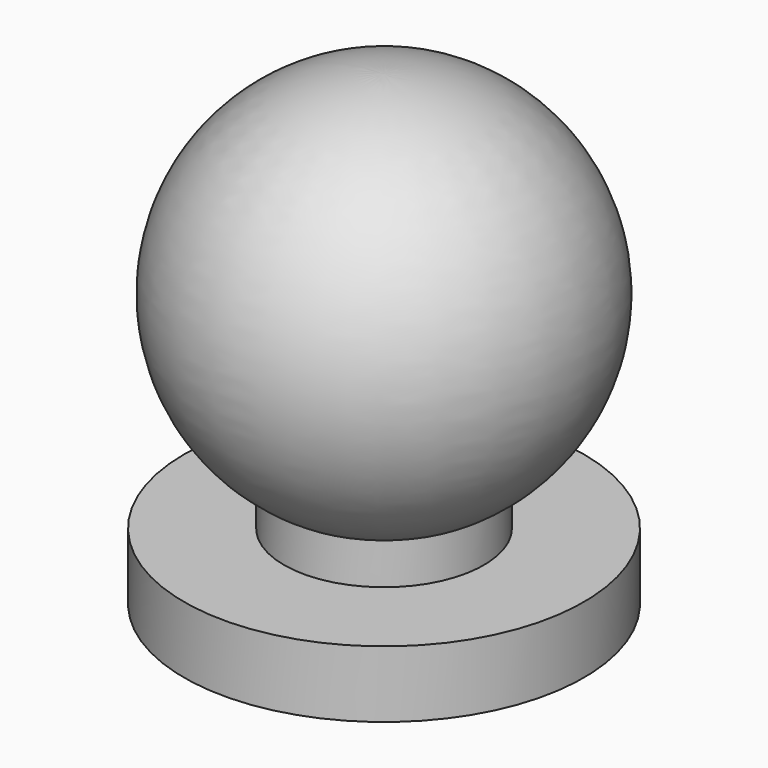
from build123d import *


with BuildPart() as f2:
    # F1 (on Front) → F2 (revolve)
    with BuildSketch(Plane.XZ):
        with BuildLine():
            Line((-3, 1), (-3, 0))
            Line((-3, 0), (0, 0))
            Line((0, 0), (0, 7))
            ThreePointArc((0, 7), (-2.793529, 4.878585), (-1.5, 1.618065))
            Line((-1.5, 1.618065), (-1.5, 1))
            Line((-1.5, 1), (-3, 1))
        make_face()
    revolve(axis=Axis((0, 0, -0.469463), (0, 0, -1)))


solid = f2.part
